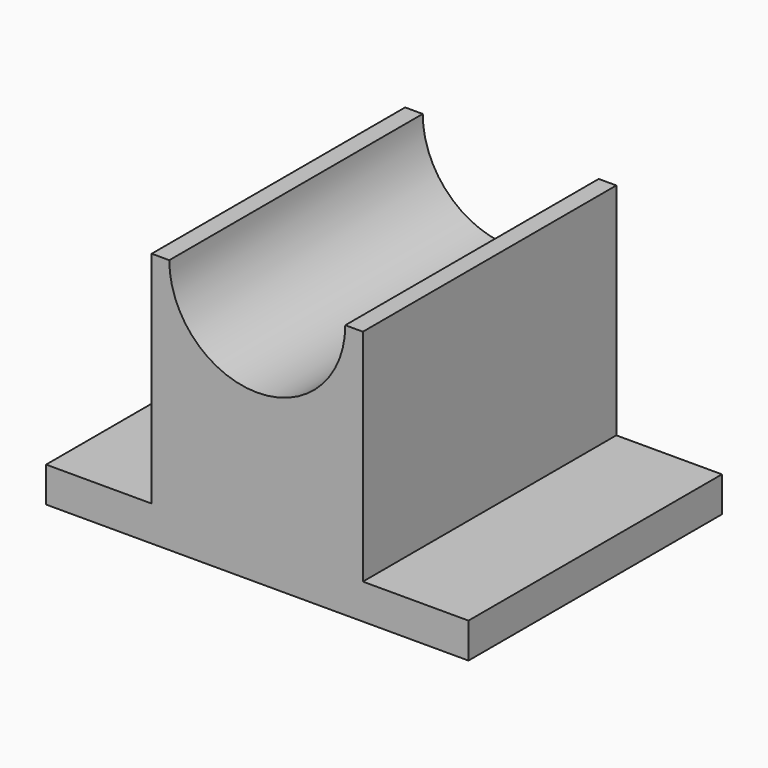
from build123d import *

# Parameters (mm, degrees)
F0_W     = 152.4
F0_H     = 92.075
F1_DEPTH = 114.3
F2_W     = 38.1
F2_H     = 79.375
F3_DEPTH = 114.3
F5_DEPTH = 114.3


with BuildPart() as f1:
    # F0 (on Front) → F1 (new body)
    with BuildSketch(Plane.XZ):
        with Locations((76.2, 46.0375)):
            Rectangle(F0_W, F0_H)
    extrude(amount=F1_DEPTH)

    # F2 (on face) → F3 (cut)
    with BuildSketch(Plane.XZ.offset(114.3)):
        with Locations((19.05, 52.3875)):
            Rectangle(F2_W, F2_H)
        with Locations((133.35, 52.3875)):
            Rectangle(F2_W, F2_H)
    extrude(amount=-F3_DEPTH, mode=Mode.SUBTRACT)

    # F4 (on face) → F5 (cut)
    with BuildSketch(Plane.XZ.offset(114.3)):
        with BuildLine():
            ThreePointArc((44.45, 92.075), (76.2, 60.325), (107.95, 92.075))
            Line((107.95, 92.075), (44.45, 92.075))
        make_face()
    extrude(amount=-F5_DEPTH, mode=Mode.SUBTRACT)


solid = f1.part
